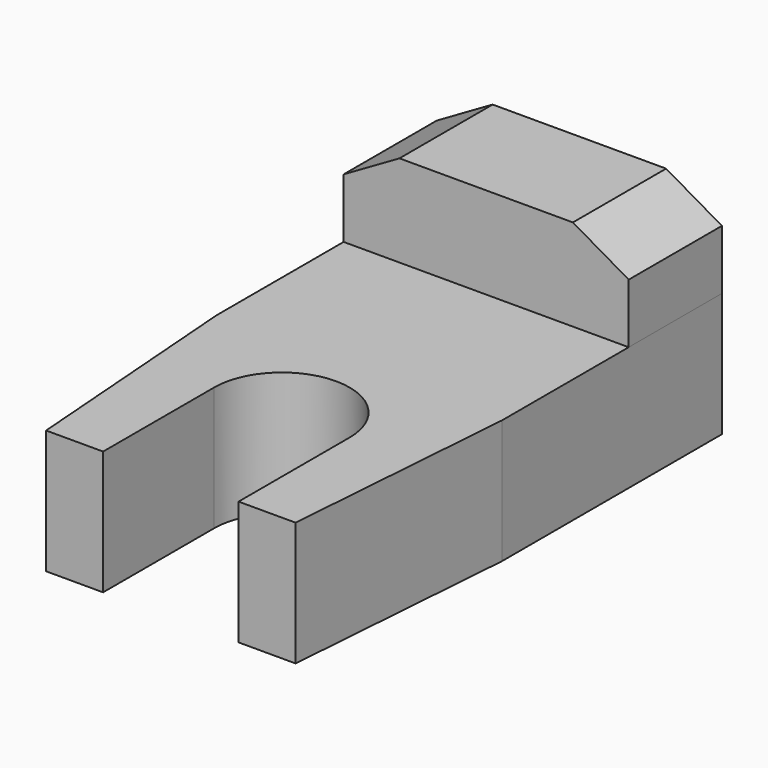
from build123d import *

# Parameters (mm, degrees)
F1_DEPTH = 25.4
F3_DEPTH = 23.876


with BuildPart() as f1:
    # F0 (on Top) → F1 (new body)
    with BuildSketch(Plane.XY):
        with BuildLine():
            Line((83.845746, 26.971648), (25.425746, 26.971648))
            Line((25.425746, 26.971648), (25.425746, -29.416352))
            Line((25.425746, -29.416352), (29.072082, -77.676352))
            Line((29.072082, -77.676352), (40.756082, -77.676352))
            Line((40.756082, -77.676352), (40.756082, -49.228352))
            ThreePointArc((40.756082, -49.228352), (54.635746, -35.348688), (68.51541, -49.228352))
            Line((68.51541, -49.228352), (68.51541, -77.676352))
            Line((68.51541, -77.676352), (80.19941, -77.676352))
            Line((80.19941, -77.676352), (83.845746, -29.416352))
            Line((83.845746, -29.416352), (83.845746, 26.971648))
        make_face()
    extrude(amount=F1_DEPTH)


with BuildPart() as f3:
    # F2 (on face) → F3 (new body)
    with BuildSketch(Plane(origin=(0, 26.971648, 0), x_dir=(-1, 0, 0), z_dir=(0, 1, 0))):
        Polygon((-72.407629, 44.196), (-83.845746, 37.5922), (-83.845746, 25.4), (-25.425746, 25.4), (-25.425746, 37.5922), (-36.863862, 44.196), align=None)
    extrude(amount=-F3_DEPTH)


solid = Compound([f1.part, f3.part])
